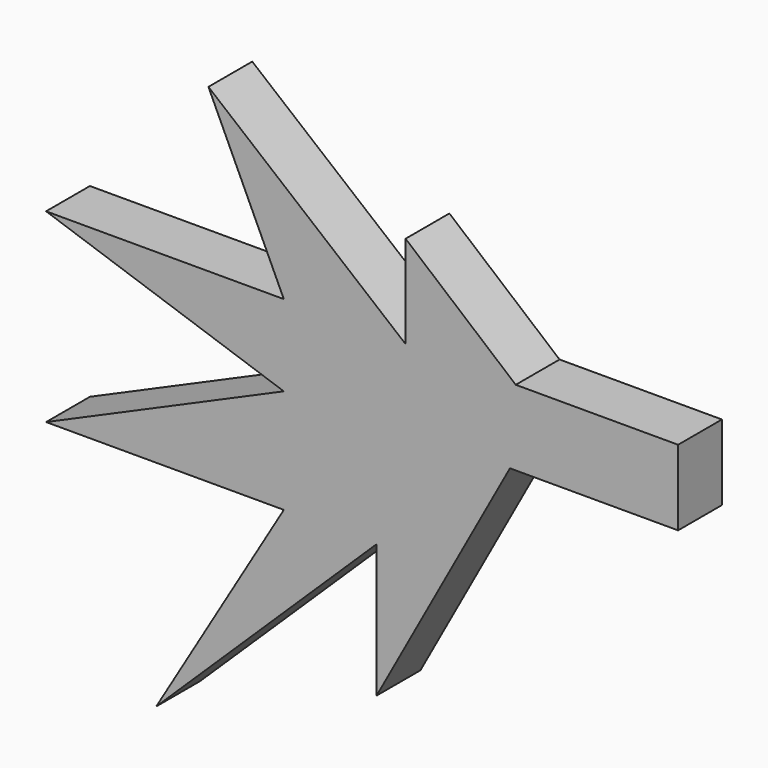
from build123d import *

# Parameters (mm, degrees)
F1_DEPTH = 2.794


with BuildPart() as f1:
    # F0 (on Front) → F1 (new body)
    with BuildSketch(Plane.XZ):
        Polygon((-139.319941, -50.285324), (-132.516623, -37.861891), (-132.220834, -34.016542), (-137.840956, -29.283805), (-137.840956, -34.016542), (-147.898018, -25.734253), (-144.052669, -34.016542), (-156.180307, -34.016542), (-144.052669, -38.157687), (-156.180307, -43.482017), (-144.052669, -43.482017), (-150.560185, -54.426469), (-139.319941, -43.482017), align=None)
        Polygon((-132.220834, -34.016542), (-132.516623, -37.861891), (-123.938538, -37.861891), (-123.938538, -34.016542), align=None)
    extrude(amount=F1_DEPTH)


solid = f1.part
